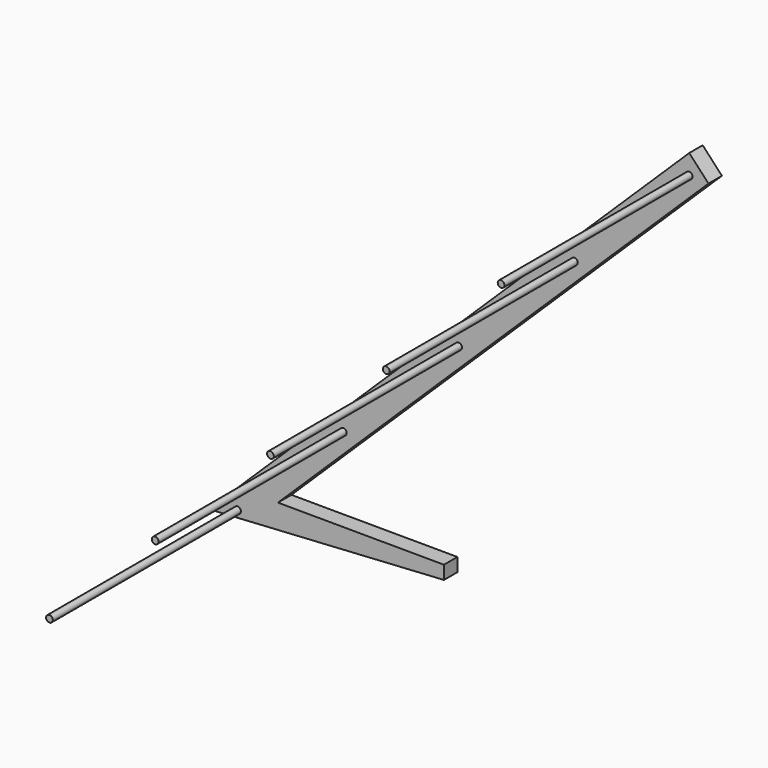
from build123d import *

# Parameters (mm, degrees)
F0_R     = 5
F1_DEPTH = 350
F2_DEPTH = 25


with BuildPart() as f1:
    # F0 (on Front) → F1 (new body)
    with BuildSketch(Plane.XZ):
        with Locations((544.130513, 459.238919)):
            Circle(F0_R)
        with Locations((715.039394, 627.732701)):
            Circle(F0_R)
        with Locations((371.823464, 292.175216)):
            Circle(F0_R)
        with Locations((200.222783, 124.386044)):
            Circle(F0_R)
        with Locations((42.914116, -29.412471)):
            Circle(F0_R)
    extrude(amount=F1_DEPTH)


with BuildPart() as f2:
    # F0 (on Front) → F2 (new body)
    with BuildSketch(Plane.XZ):
        Polygon((743.658072, 626.343777), (715.039394, 657.084162), (0, -42), (350, -21), (350, -1), (103.01922, 0), align=None)
        with Locations((42.914116, -29.412471)):
            Circle(F0_R, mode=Mode.SUBTRACT)
        with Locations((200.222783, 124.386044)):
            Circle(F0_R, mode=Mode.SUBTRACT)
        with Locations((371.823464, 292.175216)):
            Circle(F0_R, mode=Mode.SUBTRACT)
        with Locations((544.130513, 459.238919)):
            Circle(F0_R, mode=Mode.SUBTRACT)
        with Locations((715.039394, 627.732701)):
            Circle(F0_R, mode=Mode.SUBTRACT)
    extrude(amount=-F2_DEPTH)


solid = Compound([f1.part, f2.part])
